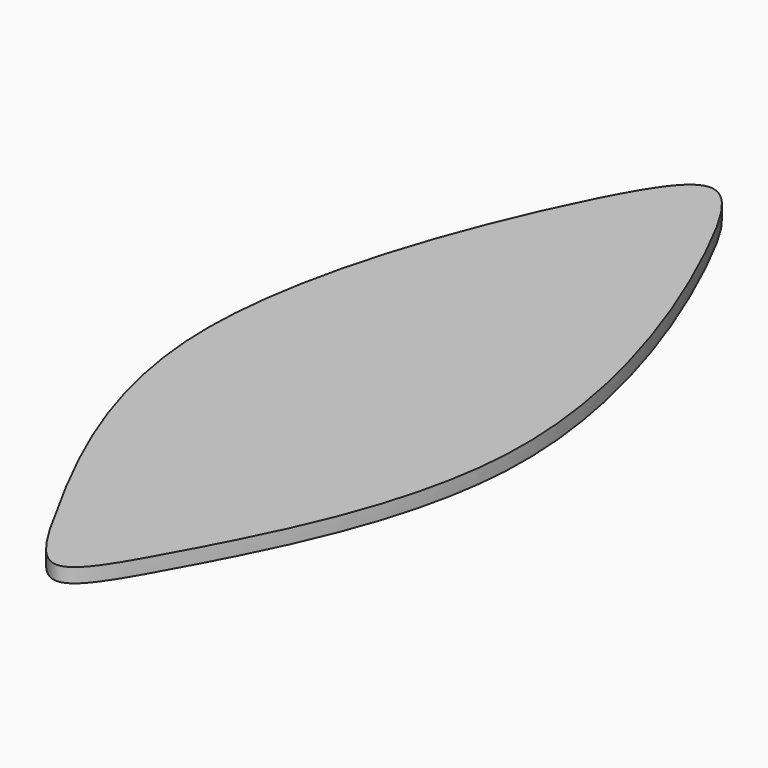
from build123d import *

# Parameters (mm, degrees)
F1_DEPTH = 12.7


with BuildPart() as f1:
    # F0 (on Top) → F1 (new body)
    with BuildSketch(Plane.XY):
        with BuildLine():
            add(Edge.make_bspline(
                [(-50.7647903131, 330.1828605522), (-90.2255020993, 252.5112913035), (-191.1535106154, -3.9449497039), (-60.4447614407, -251.0154507087), (0.0066164981, -358.387231227), (60.4069083805, -251.0955470761), (191.2755078604, -3.5305431044), (63.9300881107, 315.1344137925), (0.2991536919, 416.4789965002), (-31.6985728454, 367.711403838), (-50.7647903131, 330.1828605522)],
                knots=[0, 0, 0, 0, 0.1736695901, 0.3312400623, 0.415931585, 0.5006231078, 0.65819358, 0.8313966058, 0.9160881286, 1, 1, 1, 1], degree=3))
        make_face()
    extrude(amount=F1_DEPTH)


solid = f1.part
